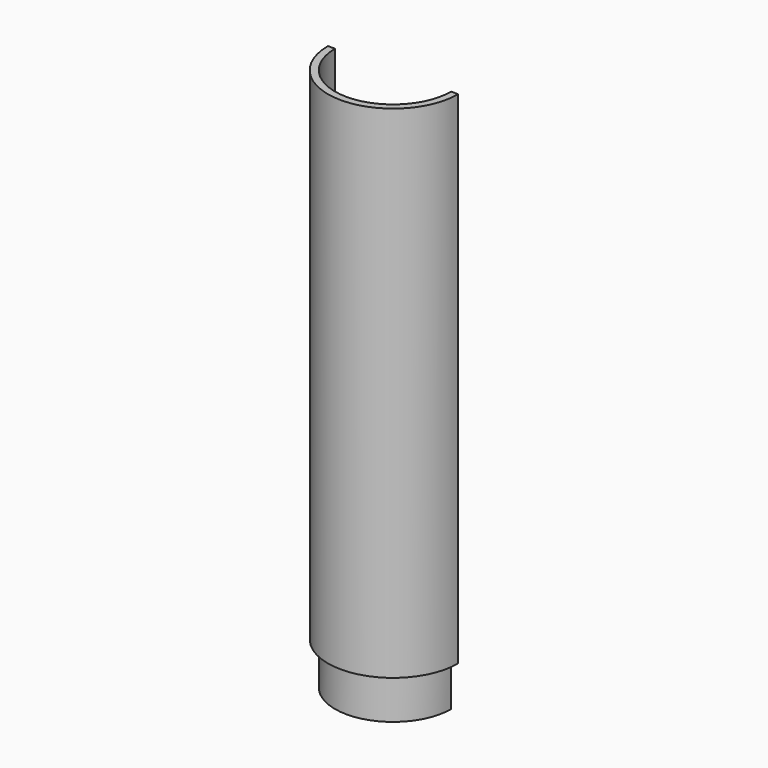
from build123d import *

# Parameters (mm, degrees)
F3_DEPTH = 2.5
F5_DEPTH = 20
F7_DEPTH = 192.001


with BuildPart() as f1:
    # F0 (on Front) → F1 (revolve)
    with BuildSketch(Plane.XZ):
        Polygon((20.5, 2.5), (0, 2.5), (0, 0), (20.5, 0), (20.5, -70), (18, -70), (18, -90), (20.5, -90), (20.5, -75), (23, -75), (23, 0), (23, 102), (20.5, 102), align=None)
    revolve(axis=Axis((0, 0, 1.25), (0, 0, 1)))

    # F2 (on face) → F3 (cut, through all)
    with BuildSketch(Plane.XY.offset(2.5)):
        with BuildLine():
            Line((0, 12.5), (16.248077, 12.5))
            ThreePointArc((16.248077, 12.5), (9.055385, 18.391574), (0, 20.5))
            Line((0, 20.5), (0, 12.5))
        make_face()
    extrude(amount=-F3_DEPTH, mode=Mode.SUBTRACT)

    # F4 (on face) → F5 (join, through all)
    with BuildSketch(Plane(origin=(0, 0, -90), x_dir=(1, 0, 0), z_dir=(0, 0, -1))):
        with BuildLine():
            ThreePointArc((-17.706597, 3.236729), (-18, 0), (-17.706597, -3.236729))
            ThreePointArc((-17.706597, -3.236729), (-14.75, 0), (-17.706597, 3.236729))
        make_face()
        with BuildLine():
            ThreePointArc((17.706597, -3.236729), (18, 0), (17.706597, 3.236729))
            ThreePointArc((17.706597, 3.236729), (14.75, 0), (17.706597, -3.236729))
        make_face()
    extrude(amount=-F5_DEPTH)

    # F6 (on face) → F7 (cut, through all)
    with BuildSketch(Plane.XY.offset(102)):
        with BuildLine():
            Line((-23, 0), (23, 0))
            ThreePointArc((23, 0), (0, 23), (-23, 0))
        make_face()
    extrude(amount=-F7_DEPTH, mode=Mode.SUBTRACT)


solid = f1.part
